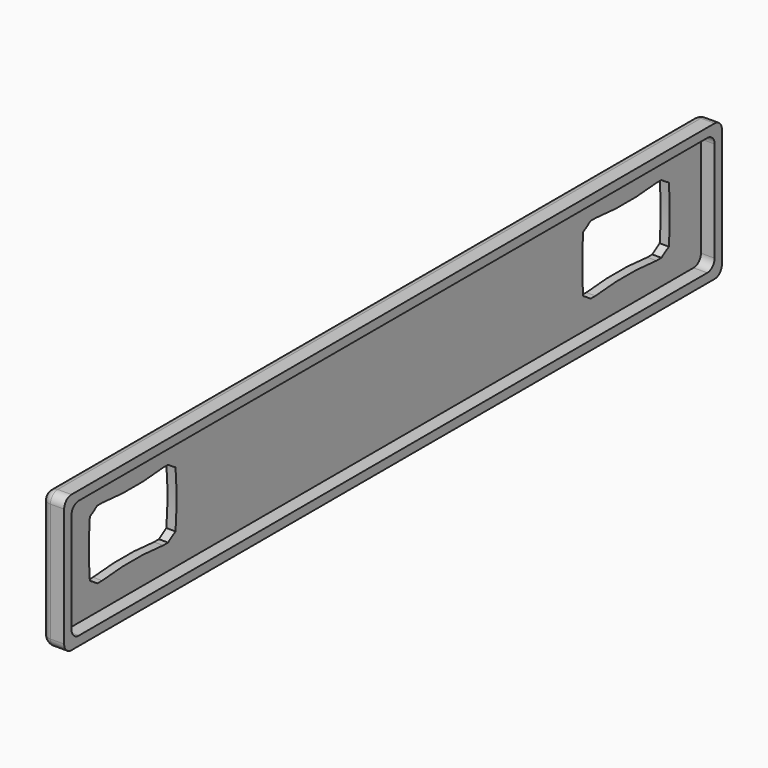
from build123d import *

# Parameters (mm, degrees)
BOX002_W          = 3
BOX002_H          = 176
BOX002_DEPTH      = 26
FILLET001_R       = 2
CYLINDER020_R     = 30
CYLINDER020_DEPTH = 10
CYLINDER019_R     = 30
CYLINDER019_DEPTH = 10
CYLINDER018_R     = 30
CYLINDER018_DEPTH = 10
CYLINDER016_R     = 30
CYLINDER016_DEPTH = 10
CYLINDER017_R     = 70
CYLINDER017_DEPTH = 10
CYLINDER015_R     = 70
CYLINDER015_DEPTH = 10
CYLINDER014_R     = 70
CYLINDER014_DEPTH = 10
CYLINDER013_R     = 70
CYLINDER013_DEPTH = 10
BOX004_W          = 10
BOX004_H          = 24
BOX004_DEPTH      = 15
CYLINDER012_R     = 30
CYLINDER012_DEPTH = 10
CYLINDER011_R     = 30
CYLINDER011_DEPTH = 10
CYLINDER010_R     = 30
CYLINDER010_DEPTH = 10
CYLINDER008_R     = 30
CYLINDER008_DEPTH = 10
CYLINDER009_R     = 70
CYLINDER009_DEPTH = 10
CYLINDER006_R     = 70
CYLINDER006_DEPTH = 10
CYLINDER005_R     = 70
CYLINDER005_DEPTH = 10
CYLINDER004_R     = 70
CYLINDER004_DEPTH = 10
BOX003_W          = 10
BOX003_H          = 24
BOX003_DEPTH      = 15
BOX_W             = 2
BOX_H             = 176
BOX_DEPTH         = 26
CYLINDER_R        = 2
CYLINDER_DEPTH    = 26
CYLINDER001_R     = 2
CYLINDER001_DEPTH = 26
CYLINDER002_R     = 2
CYLINDER002_DEPTH = 176
CYLINDER003_R     = 2
CYLINDER003_DEPTH = 176
BOX001_W          = 3
BOX001_H          = 180
BOX001_DEPTH      = 30
FILLET_R          = 2


with BuildPart() as fillet001:
    # Box002 → Box002 (new body)
    with BuildSketch(Plane(origin=(7, 2, 2), x_dir=(1, 0, 0), z_dir=(0, 0, 1))):
        with Locations((1.5, 88)):
            Rectangle(BOX002_W, BOX002_H)
    extrude(amount=BOX002_DEPTH)

    # Fillet001
    fillet001_edges = [fillet001.edges().sort_by_distance(p)[0] for p in [
        (8.5, 2, 2),
        (8.5, 2, 28),
        (8.5, 178, 2),
        (8.5, 178, 28),
    ]]
    fillet(fillet001_edges, radius=FILLET001_R)


with BuildPart() as fillet001_1:
    # Fillet001 placement: moved
    add(fillet001.part.moved(Location((-5, 0, 0))))


with BuildPart() as cylinder020:
    # Cylinder020 → Cylinder020 (new body)
    with BuildSketch(Plane(origin=(22, -27, 39.5), x_dir=(0, 0, -1), z_dir=(1, 0, 0))):
        Circle(CYLINDER020_R)
    extrude(amount=CYLINDER020_DEPTH)


with BuildPart() as cylinder019:
    # Cylinder019 → Cylinder019 (new body)
    with BuildSketch(Plane(origin=(22, -27, -24.5), x_dir=(0, 0, -1), z_dir=(1, 0, 0))):
        Circle(CYLINDER019_R)
    extrude(amount=CYLINDER019_DEPTH)


with BuildPart() as cylinder018:
    # Cylinder018 → Cylinder018 (new body)
    with BuildSketch(Plane(origin=(22, 27, -24.5), x_dir=(0, 0, -1), z_dir=(1, 0, 0))):
        Circle(CYLINDER018_R)
    extrude(amount=CYLINDER018_DEPTH)


with BuildPart() as cylinder016:
    # Cylinder016 → Cylinder016 (new body)
    with BuildSketch(Plane(origin=(22, 27, 39.5), x_dir=(0, 0, -1), z_dir=(1, 0, 0))):
        Circle(CYLINDER016_R)
    extrude(amount=CYLINDER016_DEPTH)


with BuildPart() as cylinder017:
    # Cylinder017 → Cylinder017 (new body)
    with BuildSketch(Plane(origin=(22, -58, 7.5), x_dir=(0, 0, -1), z_dir=(1, 0, 0))):
        Circle(CYLINDER017_R)
    extrude(amount=CYLINDER017_DEPTH)


with BuildPart() as cylinder015:
    # Cylinder015 → Cylinder015 (new body)
    with BuildSketch(Plane(origin=(22, 58, 7.5), x_dir=(0, 0, -1), z_dir=(1, 0, 0))):
        Circle(CYLINDER015_R)
    extrude(amount=CYLINDER015_DEPTH)


with BuildPart() as cylinder014:
    # Cylinder014 → Cylinder014 (new body)
    with BuildSketch(Plane(origin=(22, 0, 84.5), x_dir=(0, 0, -1), z_dir=(1, 0, 0))):
        Circle(CYLINDER014_R)
    extrude(amount=CYLINDER014_DEPTH)


with BuildPart() as cylinder013:
    # Cylinder013 → Cylinder013 (new body)
    with BuildSketch(Plane(origin=(22, 0, -69.5), x_dir=(0, 0, -1), z_dir=(1, 0, 0))):
        Circle(CYLINDER013_R)
    extrude(amount=CYLINDER013_DEPTH)


with BuildPart() as cut011:
    # Box004 → Box004 (new body)
    with BuildSketch(Plane(origin=(22, -12, 0), x_dir=(1, 0, 0), z_dir=(0, 0, 1))):
        with Locations((5, 12)):
            Rectangle(BOX004_W, BOX004_H)
    extrude(amount=BOX004_DEPTH)

    # Cut006: cut Cylinder013
    add(cylinder013.part, mode=Mode.SUBTRACT)

    # Cut007: cut Cylinder014
    add(cylinder014.part, mode=Mode.SUBTRACT)

    # Common002: intersect Cylinder015
    add(cylinder015.part, mode=Mode.INTERSECT)

    # Common003: intersect Cylinder017
    add(cylinder017.part, mode=Mode.INTERSECT)

    # Cut008: cut Cylinder016
    add(cylinder016.part, mode=Mode.SUBTRACT)

    # Cut009: cut Cylinder018
    add(cylinder018.part, mode=Mode.SUBTRACT)

    # Cut010: cut Cylinder019
    add(cylinder019.part, mode=Mode.SUBTRACT)

    # Cut011: cut Cylinder020
    add(cylinder020.part, mode=Mode.SUBTRACT)


with BuildPart() as cut011_1:
    # Cut011 placement: moved
    add(cut011.part.moved(Location((-25, 22.5, 7.5))))


with BuildPart() as cylinder012:
    # Cylinder012 → Cylinder012 (new body)
    with BuildSketch(Plane(origin=(22, -27, 39.5), x_dir=(0, 0, -1), z_dir=(1, 0, 0))):
        Circle(CYLINDER012_R)
    extrude(amount=CYLINDER012_DEPTH)


with BuildPart() as cylinder011:
    # Cylinder011 → Cylinder011 (new body)
    with BuildSketch(Plane(origin=(22, -27, -24.5), x_dir=(0, 0, -1), z_dir=(1, 0, 0))):
        Circle(CYLINDER011_R)
    extrude(amount=CYLINDER011_DEPTH)


with BuildPart() as cylinder010:
    # Cylinder010 → Cylinder010 (new body)
    with BuildSketch(Plane(origin=(22, 27, -24.5), x_dir=(0, 0, -1), z_dir=(1, 0, 0))):
        Circle(CYLINDER010_R)
    extrude(amount=CYLINDER010_DEPTH)


with BuildPart() as cylinder008:
    # Cylinder008 → Cylinder008 (new body)
    with BuildSketch(Plane(origin=(22, 27, 39.5), x_dir=(0, 0, -1), z_dir=(1, 0, 0))):
        Circle(CYLINDER008_R)
    extrude(amount=CYLINDER008_DEPTH)


with BuildPart() as cylinder009:
    # Cylinder009 → Cylinder009 (new body)
    with BuildSketch(Plane(origin=(22, -58, 7.5), x_dir=(0, 0, -1), z_dir=(1, 0, 0))):
        Circle(CYLINDER009_R)
    extrude(amount=CYLINDER009_DEPTH)


with BuildPart() as cylinder006:
    # Cylinder006 → Cylinder006 (new body)
    with BuildSketch(Plane(origin=(22, 58, 7.5), x_dir=(0, 0, -1), z_dir=(1, 0, 0))):
        Circle(CYLINDER006_R)
    extrude(amount=CYLINDER006_DEPTH)


with BuildPart() as cylinder005:
    # Cylinder005 → Cylinder005 (new body)
    with BuildSketch(Plane(origin=(22, 0, 84.5), x_dir=(0, 0, -1), z_dir=(1, 0, 0))):
        Circle(CYLINDER005_R)
    extrude(amount=CYLINDER005_DEPTH)


with BuildPart() as cylinder:
    # Cylinder004 → Cylinder004 (new body)
    with BuildSketch(Plane(origin=(22, 0, -69.5), x_dir=(0, 0, -1), z_dir=(1, 0, 0))):
        Circle(CYLINDER004_R)
    extrude(amount=CYLINDER004_DEPTH)


with BuildPart() as cut005:
    # Box003 → Box003 (new body)
    with BuildSketch(Plane(origin=(22, -12, 0), x_dir=(1, 0, 0), z_dir=(0, 0, 1))):
        with Locations((5, 12)):
            Rectangle(BOX003_W, BOX003_H)
    extrude(amount=BOX003_DEPTH)

    # Cut: cut Cylinder
    add(cylinder.part, mode=Mode.SUBTRACT)

    # Cut001: cut Cylinder005
    add(cylinder005.part, mode=Mode.SUBTRACT)

    # Common: intersect Cylinder006
    add(cylinder006.part, mode=Mode.INTERSECT)

    # Common001: intersect Cylinder009
    add(cylinder009.part, mode=Mode.INTERSECT)

    # Cut002: cut Cylinder008
    add(cylinder008.part, mode=Mode.SUBTRACT)

    # Cut003: cut Cylinder010
    add(cylinder010.part, mode=Mode.SUBTRACT)

    # Cut004: cut Cylinder011
    add(cylinder011.part, mode=Mode.SUBTRACT)

    # Cut005: cut Cylinder012
    add(cylinder012.part, mode=Mode.SUBTRACT)


with BuildPart() as cut005_1:
    # Cut005 placement: moved
    add(cut005.part.moved(Location((-25, 157.5, 7.5))))


with BuildPart() as cube001:
    # Box → Box (new body)
    with BuildSketch(Plane(origin=(0, 2, 2), x_dir=(1, 0, 0), z_dir=(0, 0, 1))):
        with Locations((1, 88)):
            Rectangle(BOX_W, BOX_H)
    extrude(amount=BOX_DEPTH)


with BuildPart() as cylinder001:
    # Cylinder → Cylinder (new body)
    with BuildSketch(Plane(origin=(2, 2, 2), x_dir=(0, 1, 0), z_dir=(0, 0, 1))):
        Circle(CYLINDER_R)
    extrude(amount=CYLINDER_DEPTH)


with BuildPart() as cylinder002:
    # Cylinder001 → Cylinder001 (new body)
    with BuildSketch(Plane(origin=(2, 178, 2), x_dir=(0, 1, 0), z_dir=(0, 0, 1))):
        Circle(CYLINDER001_R)
    extrude(amount=CYLINDER001_DEPTH)


with BuildPart() as cylinder003:
    # Cylinder002 → Cylinder002 (new body)
    with BuildSketch(Plane(origin=(2, 178, 2), x_dir=(1, 0, 0), z_dir=(0, -1, 0))):
        Circle(CYLINDER002_R)
    extrude(amount=CYLINDER002_DEPTH)


with BuildPart() as cylinder004:
    # Cylinder003 → Cylinder003 (new body)
    with BuildSketch(Plane(origin=(2, 178, 28), x_dir=(1, 0, 0), z_dir=(0, -1, 0))):
        Circle(CYLINDER003_R)
    extrude(amount=CYLINDER003_DEPTH)


with BuildPart() as sphere001:
    # Sphere → Sphere (revolve)
    with BuildSketch(Plane(origin=(2, 2, 2), x_dir=(1, 0, 0), z_dir=(0, -1, 0))):
        with BuildLine():
            ThreePointArc((0, -2), (2, 0), (0, 2))
            Line((0, 2), (0, -2))
        make_face()
    revolve(axis=Axis((2, 2, 2), (0, 0, 1)))


with BuildPart() as sphere002:
    # Sphere001 → Sphere001 (revolve)
    with BuildSketch(Plane(origin=(2, 178, 2), x_dir=(1, 0, 0), z_dir=(0, -1, 0))):
        with BuildLine():
            ThreePointArc((0, -2), (2, 0), (0, 2))
            Line((0, 2), (0, -2))
        make_face()
    revolve(axis=Axis((2, 178, 2), (0, 0, 1)))


with BuildPart() as sphere003:
    # Sphere002 → Sphere002 (revolve)
    with BuildSketch(Plane(origin=(2, 2, 28), x_dir=(1, 0, 0), z_dir=(0, -1, 0))):
        with BuildLine():
            ThreePointArc((0, -2), (2, 0), (0, 2))
            Line((0, 2), (0, -2))
        make_face()
    revolve(axis=Axis((2, 2, 28), (0, 0, 1)))


with BuildPart() as sphere004:
    # Sphere003 → Sphere003 (revolve)
    with BuildSketch(Plane(origin=(2, 178, 28), x_dir=(1, 0, 0), z_dir=(0, -1, 0))):
        with BuildLine():
            ThreePointArc((0, -2), (2, 0), (0, 2))
            Line((0, 2), (0, -2))
        make_face()
    revolve(axis=Axis((2, 178, 28), (0, 0, 1)))


with BuildPart() as cut014:
    # Box001 → Box001 (new body)
    with BuildSketch(Plane(origin=(2, 0, 0), x_dir=(1, 0, 0), z_dir=(0, 0, 1))):
        with Locations((1.5, 90)):
            Rectangle(BOX001_W, BOX001_H)
    extrude(amount=BOX001_DEPTH)

    # Fillet
    fillet_edges = [cut014.edges().sort_by_distance(p)[0] for p in [
        (3.5, 0, 0),
        (3.5, 0, 30),
        (3.5, 180, 0),
        (3.5, 180, 30),
    ]]
    fillet(fillet_edges, radius=FILLET_R)

    # Fusion: union Cube001, Cylinder001, Cylinder002, Cylinder003, Cylinder004, Sphere001, Sphere002, Sphere003, Sphere004
    add(cube001.part)
    add(cylinder001.part)
    add(cylinder002.part)
    add(cylinder003.part)
    add(cylinder004.part)
    add(sphere001.part)
    add(sphere002.part)
    add(sphere003.part)
    add(sphere004.part)

    # Cut012: cut Cut005
    add(cut005_1.part, mode=Mode.SUBTRACT)

    # Cut013: cut Cut011
    add(cut011_1.part, mode=Mode.SUBTRACT)

    # Cut014: cut Fillet001
    add(fillet001_1.part, mode=Mode.SUBTRACT)


solid = cut014.part
